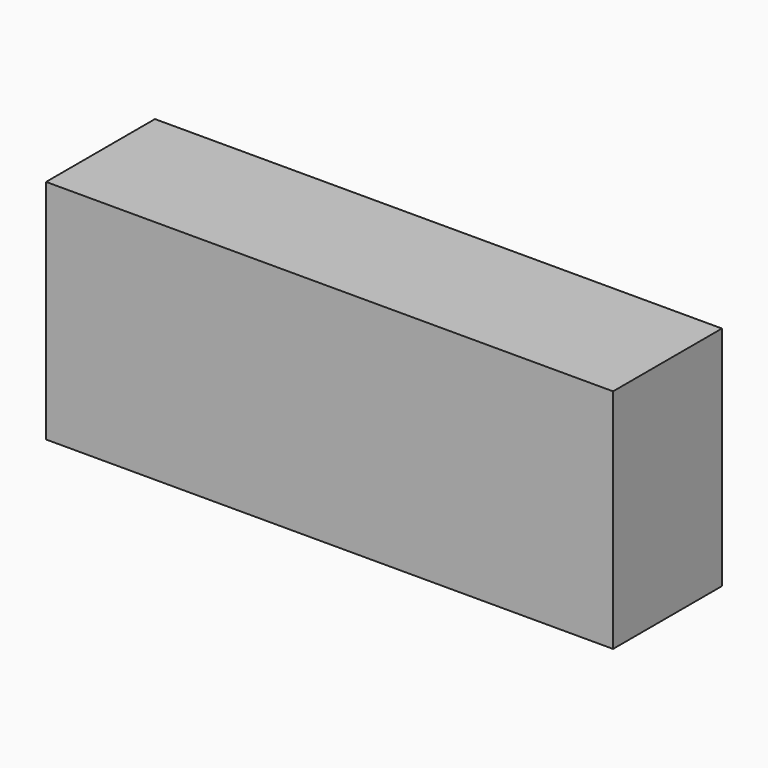
from build123d import *

# Parameters (mm, degrees)
SKETCH_W      = 125
SKETCH_H      = 30
EXTRUDE_DEPTH = 50


with BuildPart() as part:
    # Sketch → Extrude (new body)
    with BuildSketch(Plane.XY):
        Rectangle(SKETCH_W, SKETCH_H)
    extrude(amount=EXTRUDE_DEPTH)


solid = part.part
